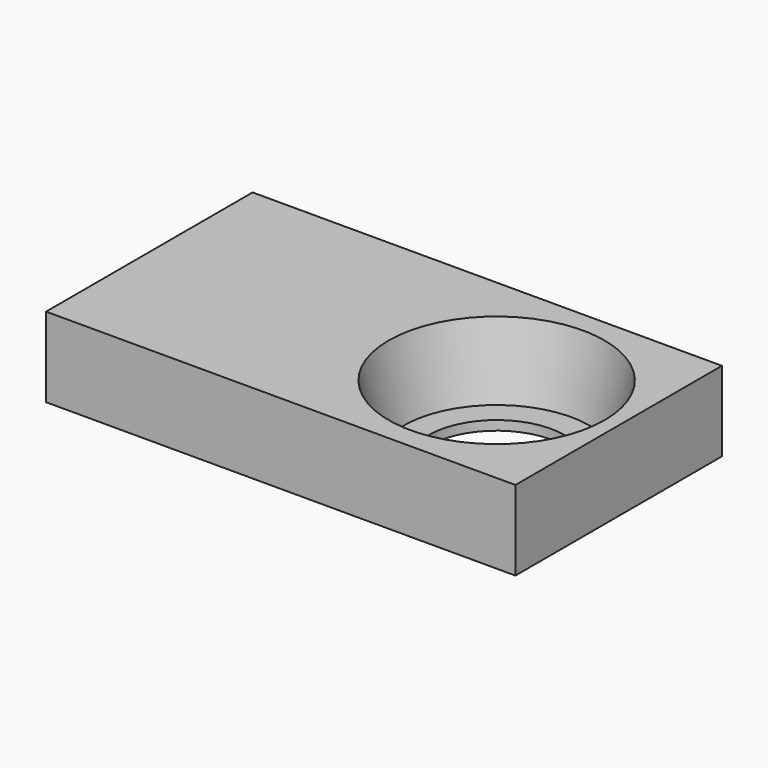
from build123d import *

# Parameters (mm, degrees)
F0_W     = 100
F0_H     = 55
F1_DEPTH = 17
F3_R     = 23
F2_R     = 19.5
F5_R     = 14.5
F5_R_2   = 20.5
F6_DEPTH = 2


with BuildPart() as f1:
    # F0 (on Top) → F1 (new body)
    with BuildSketch(Plane.XY):
        Rectangle(F0_W, F0_H)
    extrude(amount=F1_DEPTH)

    # F3 (on face) → F4 section 0
    with BuildSketch(Plane.XY.offset(17)):
        with Locations((24, 0)):
            Circle(F3_R)
    # F2 (on face) → F4 section 1
    with BuildSketch(Plane(origin=(0, 0, 0), x_dir=(1, 0, 0), z_dir=(0, 0, -1))):
        with Locations((24, 0)):
            Circle(F2_R)
    loft(mode=Mode.SUBTRACT)

    # F5 (on face) → F6 (join)
    with BuildSketch(Plane(origin=(0, 0, 0), x_dir=(1, 0, 0), z_dir=(0, 0, -1))):
        with Locations((24, 0)):
            Circle(F5_R)
        with Locations((24, 0)):
            Circle(F5_R_2)
        with Locations((24, 0)):
            Circle(F5_R, mode=Mode.SUBTRACT)
    extrude(amount=-F6_DEPTH)


solid = f1.part
